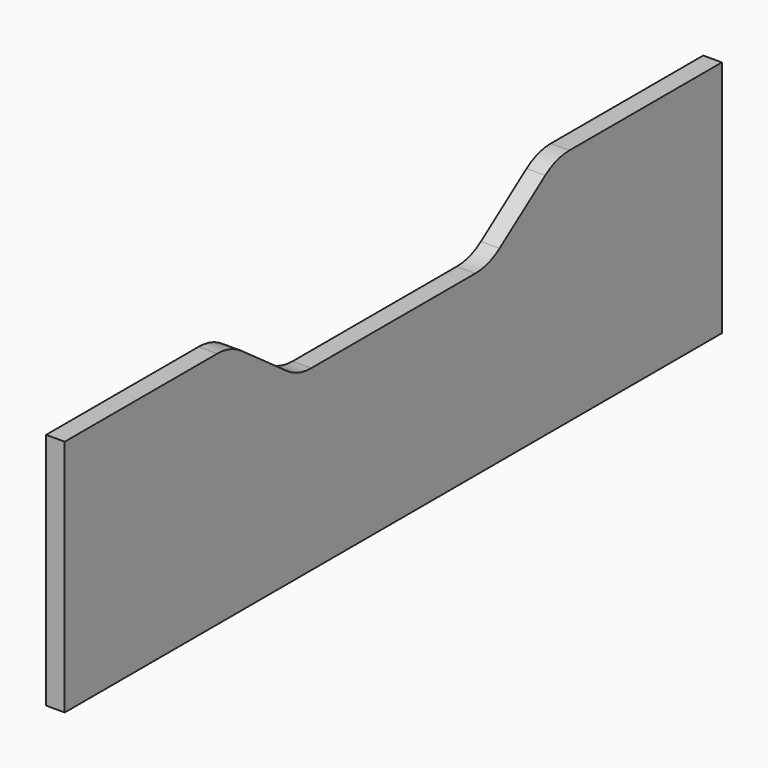
from build123d import *

# Parameters (mm, degrees)
F1_DEPTH = 18


with BuildPart() as f1:
    # F0 (on Right) → F1 (new body)
    with BuildSketch(Plane.YZ):
        with BuildLine():
            Line((396.25, -115), (396.25, 115))
            Line((396.25, 115), (212.359541, 115))
            ThreePointArc((212.359541, 115), (197.026206, 112.590849), (183.170485, 105.595555))
            Line((183.170485, 105.595555), (128.138406, 66.026335))
            ThreePointArc((128.138406, 66.026335), (114.282684, 59.031041), (98.94935, 56.621889))
            Line((98.94935, 56.621889), (-98.94935, 56.621889))
            ThreePointArc((-98.94935, 56.621889), (-114.282684, 59.031041), (-128.138406, 66.026335))
            Line((-128.138406, 66.026335), (-183.170485, 105.595555))
            ThreePointArc((-183.170485, 105.595555), (-197.026206, 112.590849), (-212.359541, 115))
            Line((-212.359541, 115), (-396.25, 115))
            Line((-396.25, 115), (-396.25, -115))
            Line((-396.25, -115), (396.25, -115))
        make_face()
    extrude(amount=F1_DEPTH)


solid = f1.part
